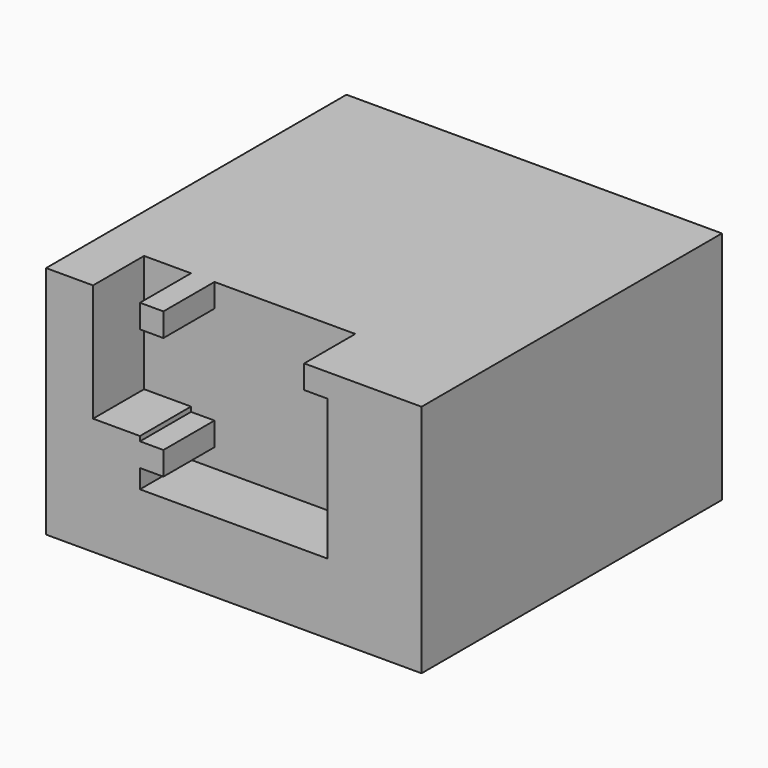
from build123d import *

# Parameters (mm, degrees)
F0_W     = 101.6
F0_H     = 101.6
F1_DEPTH = 31.75
F2_W     = 11.43
F2_H     = 3.175
F3_DEPTH = 27.94
F4_W     = 25.4
F4_H     = 12.7
F5_DEPTH = 17.272


with BuildPart() as f1:
    # F0 (on Top) → F1 (new body, symmetric)
    with BuildSketch(Plane.XY):
        Rectangle(F0_W, F0_H)
    extrude(amount=F1_DEPTH, both=True)

    # F2 (on face) → F3 (cut)
    with BuildSketch(Plane(origin=(0, 0, -31.75), x_dir=(1, 0, 0), z_dir=(0, 0, -1))):
        Polygon((12.7, 0), (0, 0), (-27.94, 0), (-27.94, -10.16), (12.7, -10.16), (12.7, -3.175), align=None)
        Polygon((-27.94, 0), (0, 0), (12.7, 0), (12.7, 3.175), (12.7, 10.16), (-27.94, 10.16), align=None)
        with Locations((18.415, 1.5875)):
            Rectangle(F2_W, F2_H)
        with Locations((18.415, -1.5875)):
            Rectangle(F2_W, F2_H)
    extrude(amount=-F3_DEPTH, mode=Mode.SUBTRACT)

    # F4 (on face) → F5 (cut)
    with BuildSketch(Plane.XZ.offset(50.8)):
        Polygon((-38.1, 0), (-25.4, 0), (-25.4, 25.4), (-25.4, 31.75), (-38.1, 31.75), align=None)
        Polygon((-25.4, 0), (0, 0), (0, 31.75), (-19.05, 31.75), (-19.05, 25.4), (-25.4, 25.4), align=None)
        Polygon((0, 31.75), (0, 0), (25.4, 0), (25.4, 25.4), (19.05, 25.4), (19.05, 31.75), align=None)
        with Locations((12.7, -6.35)):
            Rectangle(F4_W, F4_H)
        Polygon((0, -12.7), (0, 0), (-25.4, 0), (-25.4, -1.27), (-19.05, -1.27), (-19.05, -7.62), (-25.4, -7.62), (-25.4, -12.7), align=None)
    extrude(amount=-F5_DEPTH, mode=Mode.SUBTRACT)


solid = f1.part
